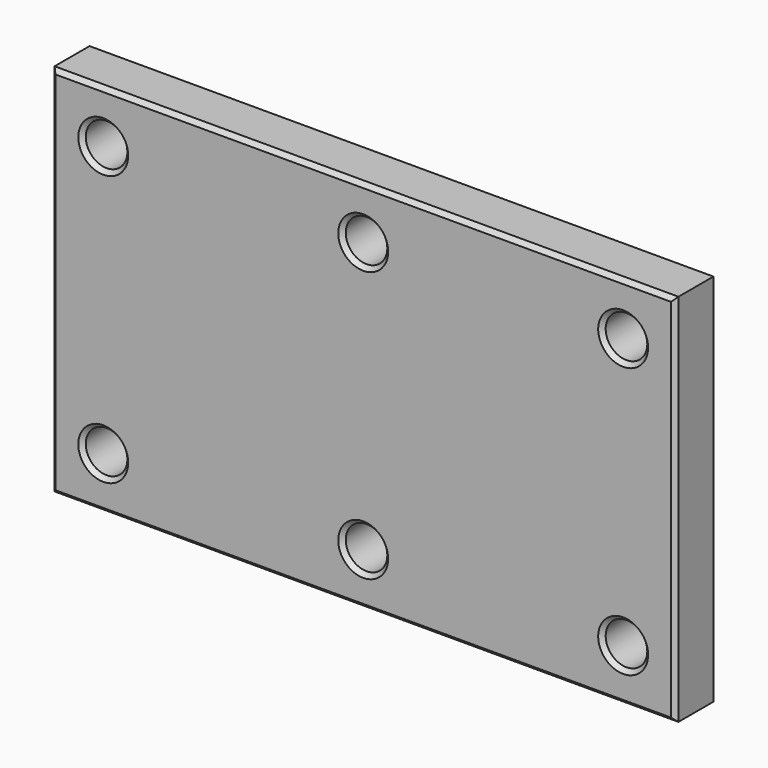
from build123d import *

# Parameters (mm, degrees)
F0_W     = 300
F0_H     = 180
F0_R     = 10
F1_DEPTH = 25
F2_SIZE2 = 2
F2_SIZE  = 2
F3_SIZE2 = 2
F3_SIZE  = 2


with BuildPart() as f1:
    # F0 (on Front) → F1 (new body)
    with BuildSketch(Plane.XZ):
        with Locations((150, 90)):
            Rectangle(F0_W, F0_H)
        with Locations((25, 25)):
            Circle(F0_R, mode=Mode.SUBTRACT)
        with Locations((150, 25)):
            Circle(F0_R, mode=Mode.SUBTRACT)
        with Locations((275, 25)):
            Circle(F0_R, mode=Mode.SUBTRACT)
        with Locations((25, 155)):
            Circle(F0_R, mode=Mode.SUBTRACT)
        with Locations((150, 155)):
            Circle(F0_R, mode=Mode.SUBTRACT)
        with Locations((275, 155)):
            Circle(F0_R, mode=Mode.SUBTRACT)
    extrude(amount=F1_DEPTH)

    # F2
    f2_edges = [f1.edges().sort_by_distance(p)[0] for p in [
        (15, -25, 155),
        (15, -25, 25),
        (140, -25, 25),
        (140, -25, 155),
        (265, -25, 155),
        (265, -25, 25),
    ]]
    chamfer(f2_edges, length=F2_SIZE, length2=F2_SIZE2)

    # F3
    f3_edges = [f1.edges().sort_by_distance(p)[0] for p in [
        (300, -25, 90),
        (150, -25, 0),
        (0, -25, 90),
        (150, -25, 180),
        (150, 0, 0),
        (0, 0, 90),
        (300, 0, 90),
        (150, 0, 180),
    ]]
    chamfer(f3_edges, length=F3_SIZE, length2=F3_SIZE2)


solid = f1.part
